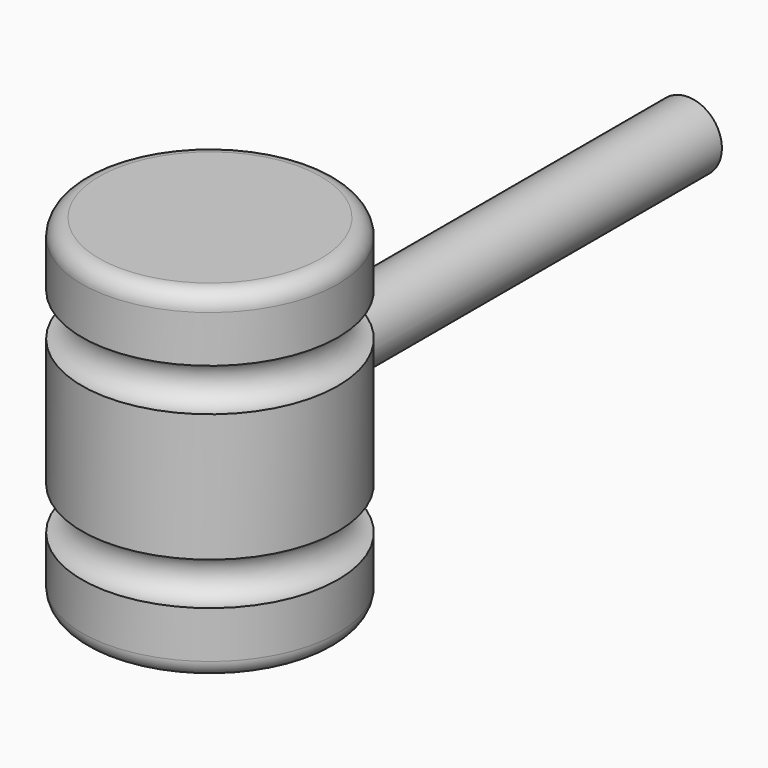
from build123d import *

# Parameters (mm, degrees)
F2_R      = 5.08
F3_R      = 10.16
F4_DEPTH  = 152.4
F4_FACE_R = 10.16
F5_DEPTH  = 177.8


with BuildPart() as f1:
    # F0 (on Front) → F1 (revolve)
    with BuildSketch(Plane.XZ):
        with BuildLine():
            Line((-38.1, 0), (0, 0))
            Line((0, 0), (0, 19.05))
            ThreePointArc((0, 19.05), (-6.35, 25.4), (0, 31.75))
            Line((0, 31.75), (0, 69.85))
            ThreePointArc((0, 69.85), (-6.35, 76.2), (0, 82.55))
            Line((0, 82.55), (0, 101.6))
            Line((0, 101.6), (-38.1, 101.6))
            Line((-38.1, 101.6), (-38.1, 0))
        make_face()
    revolve(axis=Axis((-38.1, 0, 50.8), (0, 0, 1)))

    # F2
    f2_edges = [f1.edges().sort_by_distance(p)[0] for p in [
        (-76.2, 0, 101.6),
        (-76.2, 0, 0),
    ]]
    fillet(f2_edges, radius=F2_R)

    # F3 (on Front) → F4 (cut)
    with BuildSketch(Plane.XZ):
        with Locations((-38.1, 50.8)):
            Circle(F3_R)
    extrude(amount=-F4_DEPTH, mode=Mode.SUBTRACT)

    # F4_face (on face) → F5 (join)
    with BuildSketch(Plane(origin=(-38.1, 0, 50.8), x_dir=(1, 0, 0), z_dir=(0, 1, 0))):
        Circle(F4_FACE_R)
    extrude(amount=F5_DEPTH)


solid = f1.part
